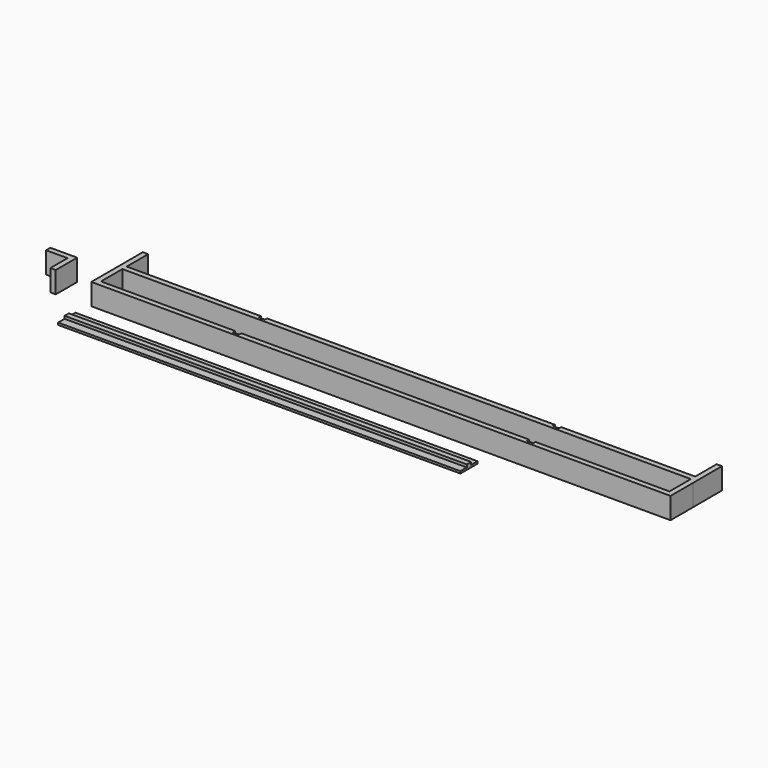
from build123d import *

# Parameters (mm, degrees)
F1_DEPTH = 8
F0_W     = 150
F0_H     = 3
F2_DEPTH = 0.8
F0_H_2   = 2
F3_DEPTH = 1.8


with BuildPart() as f1:
    # F0 (on Top) → F1 (new body)
    with BuildSketch(Plane.XY):
        Polygon((-52.784398, 37.152224), (-62.784398, 37.152224), (-62.784398, 35.152224), (-54.784398, 35.152224), (-54.784398, 27.152224), (-52.784398, 27.152224), align=None)
        Polygon((173.986718, 51.766858), (173.986718, 41.766858), (123.986718, 41.766858), (123.986718, 40.766858), (121.686718, 40.766858), (121.686718, 41.766858), (14.286718, 41.766858), (14.286718, 40.766858), (11.986718, 40.766858), (11.986718, 41.766858), (-38.013282, 41.766858), (-38.013282, 51.766858), (-40.013282, 51.766858), (-40.013282, 27.766858), (175.986718, 27.766858), (175.986718, 38.23043), (175.954312, 51.766858), align=None)
        Polygon((11.986718, 29.766858), (-38.013282, 29.766858), (-38.013282, 39.766858), (173.986718, 39.766858), (173.986718, 38.23043), (173.986718, 29.766858), (123.986718, 29.766858), (123.986718, 28.766858), (121.686718, 28.766858), (121.686718, 29.766858), (14.286718, 29.766858), (14.286718, 28.766858), (11.986718, 28.766858), align=None, mode=Mode.SUBTRACT)
    extrude(amount=F1_DEPTH)


with BuildPart() as f2:
    # F0 (on Top) → F2 (new body)
    with BuildSketch(Plane.XY):
        with Locations((34.815613, 14.022086)):
            Rectangle(F0_W, F0_H)
        with Locations((34.815613, 19.022086)):
            Rectangle(F0_W, F0_H)
    extrude(amount=F2_DEPTH)


with BuildPart() as f3:
    # F0 (on Top) → F3 (new body)
    with BuildSketch(Plane.XY):
        with Locations((34.815613, 16.522086)):
            Rectangle(F0_W, F0_H_2)
    extrude(amount=F3_DEPTH)


solid = Compound([f1.part, f2.part, f3.part])
